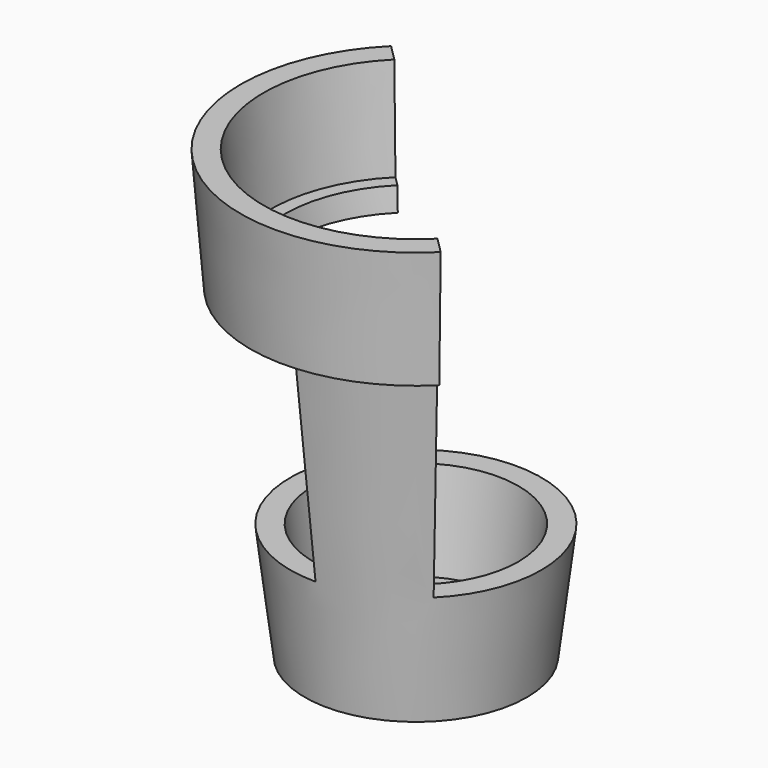
from build123d import *

# Parameters (mm, degrees)
F3_DEPTH = 18.25
F5_DEPTH = 29


with BuildPart() as f1:
    # F0 (on Front) → F1 (revolve)
    with BuildSketch(Plane.XZ):
        Polygon((8, 0), (0, 0), (0, -2), (9.769411, -2), (13.269411, 26.5), (14.54639, 26.5), (15.40639, 37.25), (13.4, 37.25), (12.7, 28.5), (11.5, 28.5), align=None)
    revolve(axis=Axis((0, 0, 14.25), (0, 0, 1)))

    # F2 (on face) → F3 (cut)
    with BuildSketch(Plane(origin=(0, 0, 26.5), x_dir=(1, 0, 0), z_dir=(0, 0, -1))):
        Polygon((-21.099057, 0), (-20.108491, 0), (0, 0), (0, 20.207549), (-21.099057, 20.207549), align=None)
        Polygon((0, 0), (-20.108491, 0), (-20.108491, -19.117925), (20.306604, -19.117925), (20.306604, 0), align=None)
    extrude(amount=F3_DEPTH, mode=Mode.SUBTRACT)

    # F4 (on face) → F5 (cut)
    with BuildSketch(Plane.XY.offset(37.25)):
        Polygon((25.364828, 31.607275), (-31.607275, 31.607275), (25.364828, -25.364828), align=None)
    extrude(amount=-F5_DEPTH, mode=Mode.SUBTRACT)


solid = f1.part
